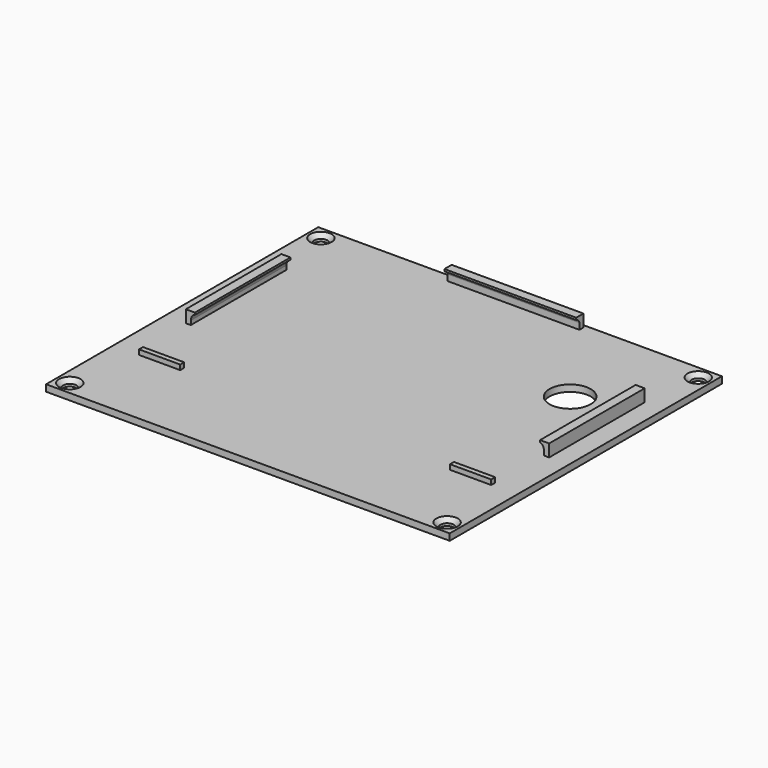
from build123d import *

# Parameters (mm, degrees)
F0_W     = 98
F0_H     = 82.6
F0_R     = 1.6
F2_DEPTH = 1.6
F1_R     = 5
F3_DEPTH = 1.601
F5_START = -36.1
F5_DEPTH = 29
F7_START = 33
F7_DEPTH = 32
F1_W     = 10
F1_H     = 1.2
F8_DEPTH = 1.2
F9_SIZE  = 1


with BuildPart() as f2:
    # F0 (on Top) → F2 (new body)
    with BuildSketch(Plane.XY):
        with Locations((49, 41.3)):
            Rectangle(F0_W, F0_H)
        with Locations((3.2, 3.2)):
            Circle(F0_R, mode=Mode.SUBTRACT)
        with Locations((94.8, 3.2)):
            Circle(F0_R, mode=Mode.SUBTRACT)
        with Locations((3.2, 79.4)):
            Circle(F0_R, mode=Mode.SUBTRACT)
        with Locations((94.8, 79.4)):
            Circle(F0_R, mode=Mode.SUBTRACT)
    extrude(amount=-F2_DEPTH)

    # F1 (on face) → F3 (cut, through all)
    with BuildSketch(Plane.XY):
        with Locations((80.75, 58.1)):
            Circle(F1_R)
    extrude(amount=-F3_DEPTH, mode=Mode.SUBTRACT)

    # F4 (on Front) → F5 (join)
    with BuildSketch(Plane.XZ.offset(F5_START)):
        with BuildLine():
            add(Edge.make_bspline(
                [(6.25, 0.9831411553), (6.1998556443, 0.4976120788), (6.25, 0.0696883488), (6.25, 0)],
                knots=[1.5113210061, 1.5113210061, 1.5113210061, 1.5113210061, 2.6925824036, 2.6925824036, 2.6925824036, 2.6925824036], degree=3))
            Line((6.25, 0), (6.25, 0.9831411553))
        make_face()
        with BuildLine():
            Line((5.05, 0), (6.25, 0))
            add(Edge.make_bspline(
                [(6.25, 0.9831411553), (6.1998556443, 0.4976120788), (6.25, 0.0696883488), (6.25, 0)],
                knots=[1.5113210061, 1.5113210061, 1.5113210061, 1.5113210061, 2.6925824036, 2.6925824036, 2.6925824036, 2.6925824036], degree=3))
            Line((6.25, 0.9831411553), (6.25, 3))
            Line((6.25, 3), (5.05, 3))
            Line((5.05, 3), (5.05, 0))
        make_face()
        with BuildLine():
            Line((6.25, 3), (6.25, 0.9831411553))
            add(Edge.make_bspline(
                [(7.25, 2.5), (6.5424729796, 2.3198194624), (6.3141553328, 1.6043332928), (6.25, 0.9831411553)],
                knots=[0, 0, 0, 0, 1.5113210061, 1.5113210061, 1.5113210061, 1.5113210061], degree=3))
            Line((7.25, 2.5), (7.25, 3))
            Line((7.25, 3), (6.25, 3))
        make_face()
        with BuildLine():
            Line((92.05, 0.9831411553), (92.05, 3))
            Line((92.05, 3), (91.05, 3))
            Line((91.05, 3), (91.05, 2.5))
            add(Edge.make_bspline(
                [(91.05, 2.5), (91.7575270204, 2.3198194624), (91.9858446672, 1.6043332928), (92.05, 0.9831411553)],
                knots=[0, 0, 0, 0, 1.5113210061, 1.5113210061, 1.5113210061, 1.5113210061], degree=3))
        make_face()
        with BuildLine():
            Line((93.25, 3), (92.05, 3))
            Line((92.05, 3), (92.05, 0.9831411553))
            add(Edge.make_bspline(
                [(92.05, 0.9831411553), (92.1001443557, 0.4976120788), (92.05, 0.0696883488), (92.05, 0)],
                knots=[1.5113210061, 1.5113210061, 1.5113210061, 1.5113210061, 2.6925824036, 2.6925824036, 2.6925824036, 2.6925824036], degree=3))
            Line((92.05, 0), (93.25, 0))
            Line((93.25, 0), (93.25, 3))
        make_face()
        with BuildLine():
            add(Edge.make_bspline(
                [(92.05, 0.9831411553), (92.1001443557, 0.4976120788), (92.05, 0.0696883488), (92.05, 0)],
                knots=[1.5113210061, 1.5113210061, 1.5113210061, 1.5113210061, 2.6925824036, 2.6925824036, 2.6925824036, 2.6925824036], degree=3))
            Line((92.05, 0.9831411553), (92.05, 0))
        make_face()
    extrude(amount=-F5_DEPTH)

    # F6 (on Right) → F7 (join)
    with BuildSketch(Plane.YZ.offset(F7_START)):
        with BuildLine():
            add(Edge.make_bspline(
                [(80.6190222502, 1.5), (80.7199138112, 0.9911874772), (80.6190222502, 0.2993458475), (80.6190222502, 0)],
                knots=[0.4926390921, 0.4926390921, 0.4926390921, 0.4926390921, 1, 1, 1, 1], degree=3))
            Line((80.6190222502, 0), (81.8190222502, 0))
            Line((81.8190222502, 0), (81.8190222502, 3))
            Line((81.8190222502, 3), (80.6190222502, 3))
            Line((80.6190222502, 3), (80.6190222502, 1.5))
        make_face()
        with BuildLine():
            Line((80.6190222502, 1.5), (80.6190222502, 0))
            add(Edge.make_bspline(
                [(80.6190222502, 1.5), (80.7199138112, 0.9911874772), (80.6190222502, 0.2993458475), (80.6190222502, 0)],
                knots=[0.4926390921, 0.4926390921, 0.4926390921, 0.4926390921, 1, 1, 1, 1], degree=3))
        make_face()
        with BuildLine():
            add(Edge.make_bspline(
                [(79.6190222502, 2.5), (80.2328512073, 2.3155356757), (80.5210582047, 1.9940485863), (80.6190222502, 1.5)],
                knots=[0, 0, 0, 0, 0.4926390921, 0.4926390921, 0.4926390921, 0.4926390921], degree=3))
            Line((80.6190222502, 1.5), (80.6190222502, 3))
            Line((80.6190222502, 3), (79.6190222502, 3))
            Line((79.6190222502, 3), (79.6190222502, 2.5))
        make_face()
    extrude(amount=F7_DEPTH)

    # F1 (on face) → F8 (join)
    with BuildSketch(Plane.XY):
        with Locations((11.25, 21)):
            Rectangle(F1_W, F1_H)
        with Locations((86.75, 21)):
            Rectangle(F1_W, F1_H)
    extrude(amount=F8_DEPTH)

    # F9
    f9_edges = [f2.edges().sort_by_distance(p)[0] for p in [
        (1.6, 79.4, 0),
        (1.6, 3.2, 0),
        (93.2, 3.2, 0),
        (93.2, 79.4, 0),
    ]]
    chamfer(f9_edges, length=F9_SIZE)


solid = f2.part
